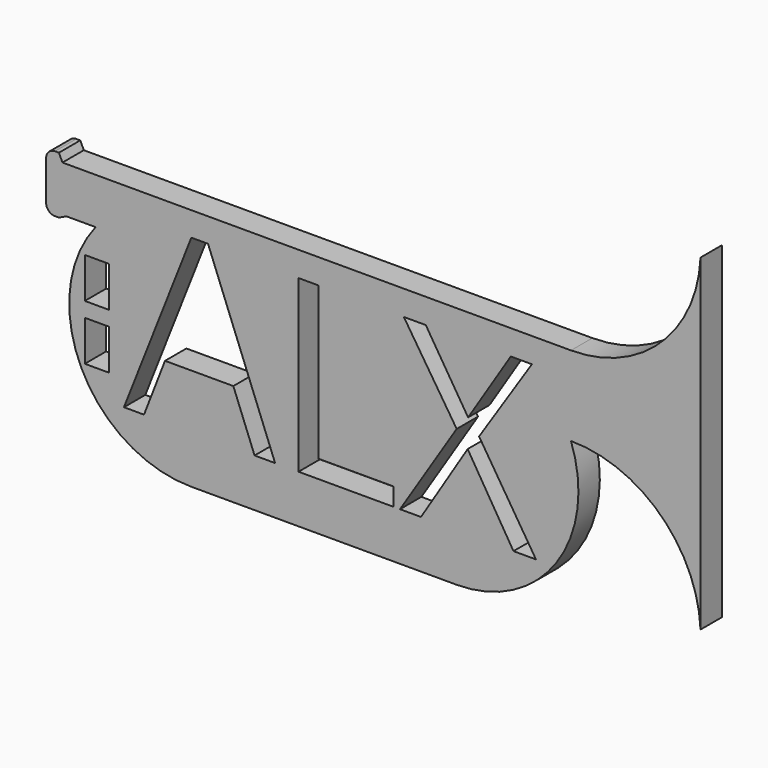
from build123d import *

# Parameters (mm, degrees)
F0_W     = 2.7374038473
F0_H     = 4.5464726281
F1_DEPTH = 3


with BuildPart() as f1:
    # F0 (on Front) → F1 (new body)
    with BuildSketch(Plane.XZ):
        with BuildLine():
            Line((-13.9879264009, 8.4983842463), (-10.7078288449, 8.4983842463))
            ThreePointArc((-10.7078288449, 8.4983842463), (-12.3096819162, -5.9457433928), (0, -13.6704108706))
            Line((0, -13.6704108706), (29.832560569, -13.6704108706))
            ThreePointArc((29.832560569, -13.6704108706), (41.0439649972, -7.8220549805), (42.6626390029, 4.7190275219))
            ThreePointArc((42.6626390029, 4.7190275219), (52.7277631814, 0.6811115523), (57.2114773095, -9.193492122))
            Line((57.2114773095, -9.193492122), (57.2114773095, 27.5829305145))
            ThreePointArc((57.2114773095, 27.5829305145), (52.7277631814, 17.7083268402), (42.6626390029, 13.6704108706))
            Line((42.6626390029, 13.6704108706), (29.832560569, 13.6704108706))
            Line((29.832560569, 13.6704108706), (0, 13.6704108706))
            Line((0, 13.6704108706), (-14.4307379611, 13.6704108706))
            Line((-14.4307379611, 13.6704108706), (-14.8297163701, 14.5122008398))
            Line((-14.8297163701, 14.5122008398), (-15.268201828, 14.5122008398))
            ThreePointArc((-15.268201828, 14.5122008398), (-15.9753086092, 14.219307621), (-16.268201828, 13.5122008398))
            Line((-16.268201828, 13.5122008398), (-16.268201828, 9.0994058373))
            ThreePointArc((-16.268201828, 9.0994058373), (-15.9753086092, 8.3922990562), (-15.268201828, 8.0994058373))
            Line((-15.268201828, 8.0994058373), (-14.8297163701, 8.0994058373))
            Line((-14.8297163701, 8.0994058373), (-13.9879264009, 8.4983842463))
        make_face()
        with Locations((-10.5523099191, -3.12910098)):
            Rectangle(F0_W, F0_H, mode=Mode.SUBTRACT)
        Polygon((9.4438036352, -8.2694776356), (7.1393343615, -8.2694776356), (4.7552561492, -2.1814888088), (-2.9165315603, -2.1814888088), (-5.2712801637, -8.2694776356), (-7.5254701078, -8.2694776356), (0.0415689984, 10.9539860515), (1.9144740263, 10.9539860515), align=None, mode=Mode.SUBTRACT)
        with Locations((-10.5523099191, 3.0826488801)):
            Rectangle(F0_W, F0_H, mode=Mode.SUBTRACT)
        Polygon((22.7468762609, -8.2694776356), (12.0750885514, -8.2694776356), (12.0750885514, 10.874377113), (14.2999488866, 10.874377113), (14.2999488866, -6.2541145071), (22.7468762609, -6.2541145071), align=None, mode=Mode.SUBTRACT)
        Polygon((32.3460382721, 1.811527951), (38.7357030766, -8.2694776356), (36.2091667637, -8.2694776356), (31.0639153671, 0.1481201297), (25.8264851995, -8.2694776356), (23.467546652, -8.2694776356), (29.8320717916, 1.7361089566), (23.8991108978, 10.874377113), (26.3627980486, 10.874377113), (31.1141946967, 3.2905782303), (35.9074907861, 10.874377113), (38.2748092218, 10.874377113), align=None, mode=Mode.SUBTRACT)
    extrude(amount=F1_DEPTH)


solid = f1.part
